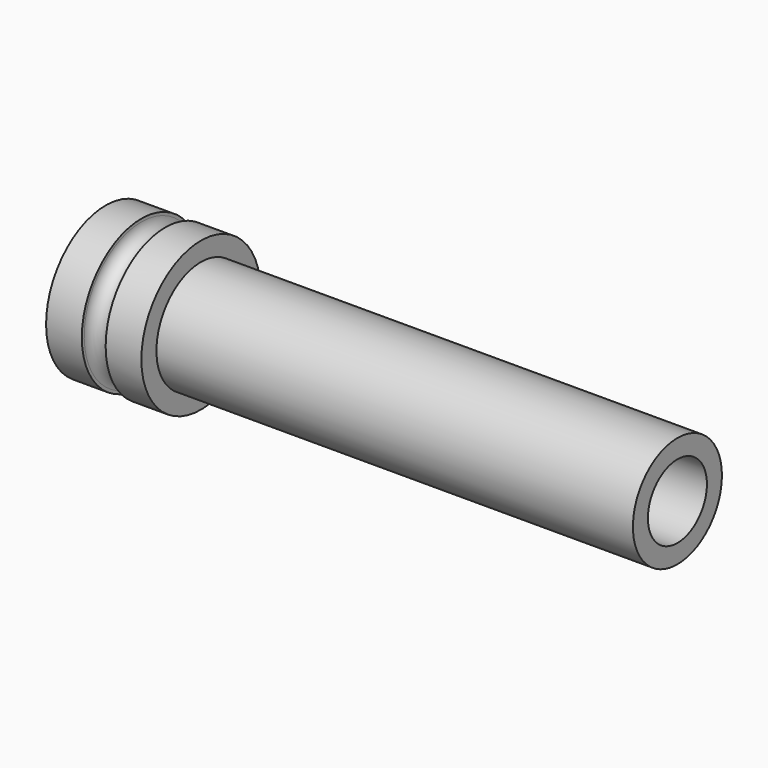
from build123d import *

# Parameters (mm, degrees)
F0_R     = 2.335
F1_DEPTH = 20
F2_R     = 3.125
F3_DEPTH = 4
F4_W     = 1
F4_H     = 1.443127
F6_R     = 1.54834
F7_DEPTH = 5


with BuildPart() as f1:
    # F0 (on Right) → F1 (new body)
    with BuildSketch(Plane.YZ):
        Circle(F0_R)
    extrude(amount=F1_DEPTH)

    # F2 (on face) → F3 (join)
    with BuildSketch(Plane(origin=(0, 0, 0), x_dir=(0, -1, 0), z_dir=(-1, 0, 0))):
        Circle(F2_R)
    extrude(amount=F3_DEPTH)

    # F4 (on Front) → F5 (revolve, cut)
    with BuildSketch(Plane.XZ):
        with BuildLine():
            Line((-1.499683, 3), (-2.499683, 3))
            ThreePointArc((-2.499683, 3), (-1.999683, 2.5), (-1.499683, 3))
        make_face()
        with Locations((-1.999683, 3.721563)):
            Rectangle(F4_W, F4_H)
    revolve(axis=Axis((-1.744851, 0, 0), (1, 0, 0)), mode=Mode.SUBTRACT)

    # F6 (on face) → F7 (cut)
    with BuildSketch(Plane.YZ.offset(20)):
        Circle(F6_R)
    extrude(amount=-F7_DEPTH, mode=Mode.SUBTRACT)


solid = f1.part
